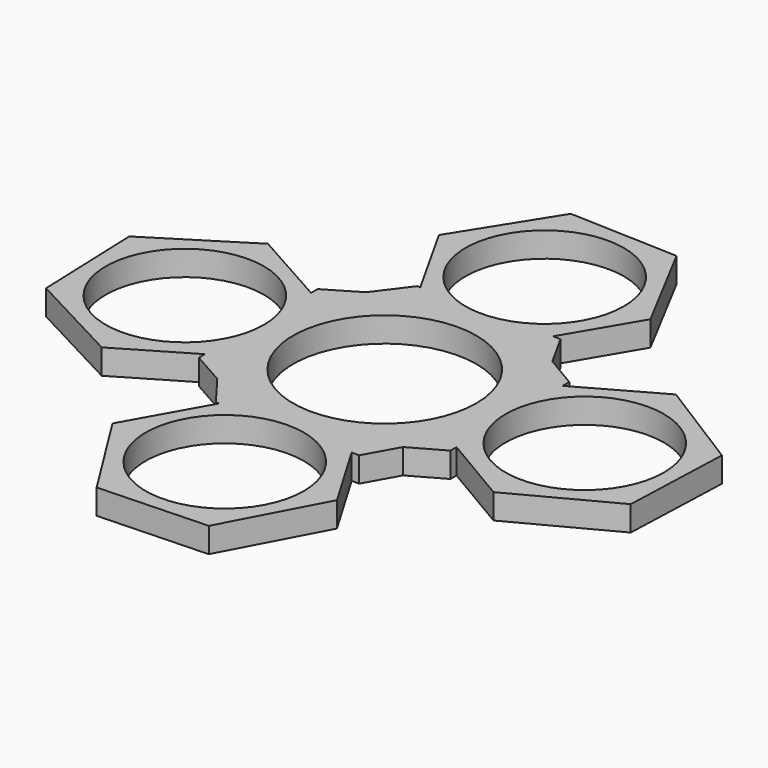
from build123d import *

# Parameters (mm, degrees)
F0_R     = 9.5
F1_DEPTH = 3


with BuildPart() as f1:
    # F0 (on Top) → F1 (new body)
    with BuildSketch(Plane.XY):
        Polygon((11.243366, 11.103062), (9.021332, 15.101957), (8.113263, 15.101957), (13.079281, 23.516777), (6.958124, 35.085378), (-6.121157, 35.568601), (-13.079281, 24.483223), (-7.813124, 15.101957), (-8.187056, 15.101957), (-11.144701, 11.158155), (-15.099014, 8.810067), (-15.099014, 7.820336), (-24.48028, 13.086494), (-35.565659, 6.12837), (-35.082436, -6.950911), (-23.513834, -13.072069), (-15.099014, -8.10605), (-15.099014, -9.01412), (-11.071869, -11.280808), (-8.187056, -15.101957), (-7.813124, -15.101957), (-13.079281, -24.483223), (-6.121157, -35.568601), (6.958124, -35.085378), (13.079281, -23.516777), (8.113263, -15.101957), (9.021332, -15.101957), (11.17502, -11.226061), (15.1049, -9.01412), (15.1049, -8.10605), (23.51972, -13.072069), (35.088321, -6.950911), (35.571544, 6.12837), (24.486166, 13.086494), (15.1049, 7.820336), (15.1049, 8.810067), align=None)
        with Locations((0, -24)):
            Circle(F0_R, mode=Mode.SUBTRACT)
        with Locations((-23.997057, 0.007213)):
            Circle(F0_R, mode=Mode.SUBTRACT)
        with BuildLine():
            ThreePointArc((-11, 0), (0, 11), (11, 0))
            ThreePointArc((11, 0), (0, -11), (-11, 0))
        make_face(mode=Mode.SUBTRACT)
        with Locations((0, 24)):
            Circle(F0_R, mode=Mode.SUBTRACT)
        with Locations((24.002943, 0.007213)):
            Circle(F0_R, mode=Mode.SUBTRACT)
    extrude(amount=F1_DEPTH)


solid = f1.part
